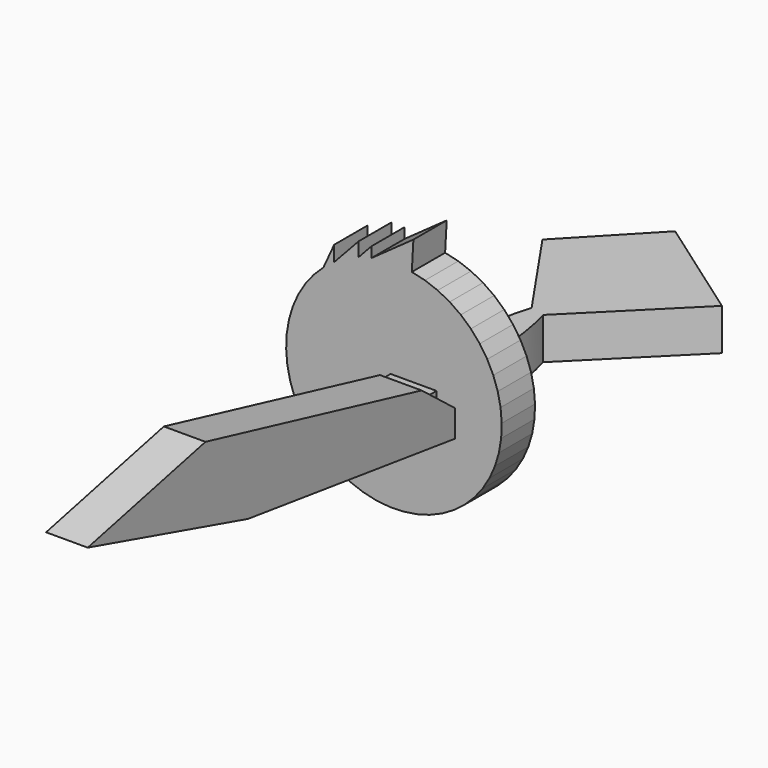
from build123d import *

# Parameters (mm, degrees)
F1_DEPTH = 25.4
F3_DEPTH = 25.4
F5_DEPTH = 25.4


with BuildPart() as f1:
    # F0 (on Top) → F1 (new body)
    with BuildSketch(Plane.XY):
        with BuildLine():
            add(Edge.make_bspline(
                [(4.8407731435, 67.5330671062), (3.2844063816, 72.5791703322), (1.6407490349, 75.497781723), (0, 75.4938647151)],
                knots=[0.9332536986, 0.9332536986, 0.9332536986, 0.9332536986, 1, 1, 1, 1], degree=3))
            add(Edge.make_bspline(
                [(0, 75.4938647151), (-1.3704474219, 75.4905930061), (-2.7388658469, 73.4484060128), (-4.0536261968, 69.8308353891)],
                knots=[0, 0, 0, 0, 0.0557503279, 0.0557503279, 0.0557503279, 0.0557503279], degree=3))
            add(Edge.make_bspline(
                [(-4.0536261968, 69.8308353891), (-12.9127091312, 45.455018016), (-19.3355556664, -50.4479074799), (-7.5271204114, -76.0682523251)],
                knots=[0.0557503279, 0.0557503279, 0.0557503279, 0.0557503279, 0.4314056924, 0.4314056924, 0.4314056924, 0.4314056924], degree=3))
            add(Edge.make_bspline(
                [(-7.5271204114, -76.0682523251), (-3.2133106681, -85.4277729417), (3.5335683384, -85.4076795144), (7.8285336494, -76.0217905045)],
                knots=[0.4314056924, 0.4314056924, 0.4314056924, 0.4314056924, 0.5686385887, 0.5686385887, 0.5686385887, 0.5686385887], degree=3))
            add(Edge.make_bspline(
                [(7.8285336494, -76.0217905045), (19.2398591449, -51.0843517129), (13.3427399346, 39.9677122684), (4.8407731435, 67.5330671062)],
                knots=[0.5686385887, 0.5686385887, 0.5686385887, 0.5686385887, 0.9332536986, 0.9332536986, 0.9332536986, 0.9332536986], degree=3))
        make_face()
        with BuildLine():
            add(Edge.make_bspline(
                [(0, 75.4938647151), (-1.3704474219, 75.4905930061), (-2.7388658469, 73.4484060128), (-4.0536261968, 69.8308353891)],
                knots=[0, 0, 0, 0, 0.0557503279, 0.0557503279, 0.0557503279, 0.0557503279], degree=3))
            add(Edge.make_bspline(
                [(4.8407731435, 67.5330671062), (3.2844063816, 72.5791703322), (1.6407490349, 75.497781723), (0, 75.4938647151)],
                knots=[0.9332536986, 0.9332536986, 0.9332536986, 0.9332536986, 1, 1, 1, 1], degree=3))
            Line((4.8407731435, 67.5330671062), (10.3095113427, 128.0233865251))
            Line((10.3095113427, 128.0233865251), (-4.0536261968, 69.8308353891))
        make_face()
        Polygon((-44.0284609795, 128.0233865251), (-4.0536261968, 69.8308353891), (10.3095113427, 128.0233865251), align=None)
        Polygon((10.3095113427, 128.0233865251), (4.8407731435, 67.5330671062), (65.4755681753, 128.0233865251), align=None)
        with BuildLine():
            add(Edge.make_bspline(
                [(-7.5271204114, -76.0682523251), (-3.2133106681, -85.4277729417), (3.5335683384, -85.4076795144), (7.8285336494, -76.0217905045)],
                knots=[0.4314056924, 0.4314056924, 0.4314056924, 0.4314056924, 0.5686385887, 0.5686385887, 0.5686385887, 0.5686385887], degree=3))
            Line((-7.5271204114, -76.0682523251), (-7.5271204114, -118.7840104103))
            Line((-7.5271204114, -118.7840104103), (7.8285336494, -76.0217905045))
        make_face()
        Polygon((-44.0284609795, 128.0233865251), (10.3095113427, 128.0233865251), (65.4755681753, 128.0233865251), (0, 174.2165982723), align=None)
    extrude(amount=F1_DEPTH)

    # F2 (on Front) → F3 (join)
    with BuildSketch(Plane.XZ):
        Polygon((35.0647498421, 65.5660423193), (28.9218947291, 71.0850805044), (22.1357589616, 75.7906955304), (14.8133639544, 79.6086770372), (7.070188251, 82.4788131758), (-0.9716536423, 84.3558401847), (-9.1853370747, 85.2101562267), (-17.441327352, 85.0282882275), (-25.6094225756, 83.8131043541), (-33.5608070045, 81.583768782), (-41.1700825562, 78.375439465), (-48.3172464097, 74.2387136729), (-54.8895835217, 69.2388300428), (-60.7834442096, 63.4546397261), (-65.9058787697, 56.9773628595), (-70.1761033488, 49.9091499686), (-73.5267739546, 42.3614709929), (-75.9050485099, 34.4533573387), (-77.2734202043, 26.3095246824), (-77.6103089988, 18.0584061299), (-76.9104019558, 9.8301267496), (-75.1847370275, 1.7544514229), (-72.4605289807, -6.0412616263), (-68.7807402035, -13.4340693463), (-64.2034031634, -20.307382743), (-58.8007051997, -26.5528055582), (-52.6578500867, -32.0718437433), (-45.8717143191, -36.7774587693), (-38.5493193119, -40.5954402761), (-30.8061436085, -43.4655764147), (-22.7643017153, -45.3426034236), (-14.5506182828, -46.1969194657), (-6.2946280055, -46.0150514664), (1.8734672181, -44.799867593), (9.8248516469, -42.5705320209), (17.4341271986, -39.3622027039), (24.5812910522, -35.2254769118), (31.1536281641, -30.2255932817), (37.047488852, -24.441402965), (42.1699234121, -17.9641260984), (46.4401479913, -10.8959132075), (49.790818597, -3.3482342318), (52.1690931524, 4.5598794223), (53.5374648468, 12.7037120787), (53.8743536413, 20.9548306312), (53.1744465983, 29.1831100115), (51.4487816699, 37.2587853382), (48.7245736231, 45.0544983874), (45.044784846, 52.4473061074), (40.4674478058, 59.320619504), align=None)
        Polygon((-9.1853370747, 85.2101562267), (-0.9716536423, 84.3558401847), (0, 102.0670607686), (-25.6094225756, 83.8131043541), (-17.441327352, 85.0282882275), align=None)
        Polygon((-33.5608070045, 81.583768782), (-25.6094225756, 83.8131043541), (-25.6094225756, 90.1521965861), align=None)
        Polygon((-41.1700825562, 78.375439465), (-33.5608070045, 81.583768782), (-33.5608070045, 90.1521965861), (-48.3172464097, 74.2387136729), align=None)
        Polygon((-54.8895835217, 69.2388300428), (-48.3172464097, 74.2387136729), (-48.3172464097, 83.6073234677), align=None)
    extrude(amount=F3_DEPTH)

    # F4 (on Right) → F5 (join)
    with BuildSketch(Plane.YZ):
        Polygon((-305.4965734482, 58.7429665029), (-183.2486838102, 24.4857445359), (-215.6980782747, 79.0661200881), align=None)
        Polygon((-215.6980782747, 79.0661200881), (-183.2486838102, 24.4857445359), (0, 0), (-50.8633553982, 39.6590679884), align=None)
    extrude(amount=F5_DEPTH)


solid = f1.part
